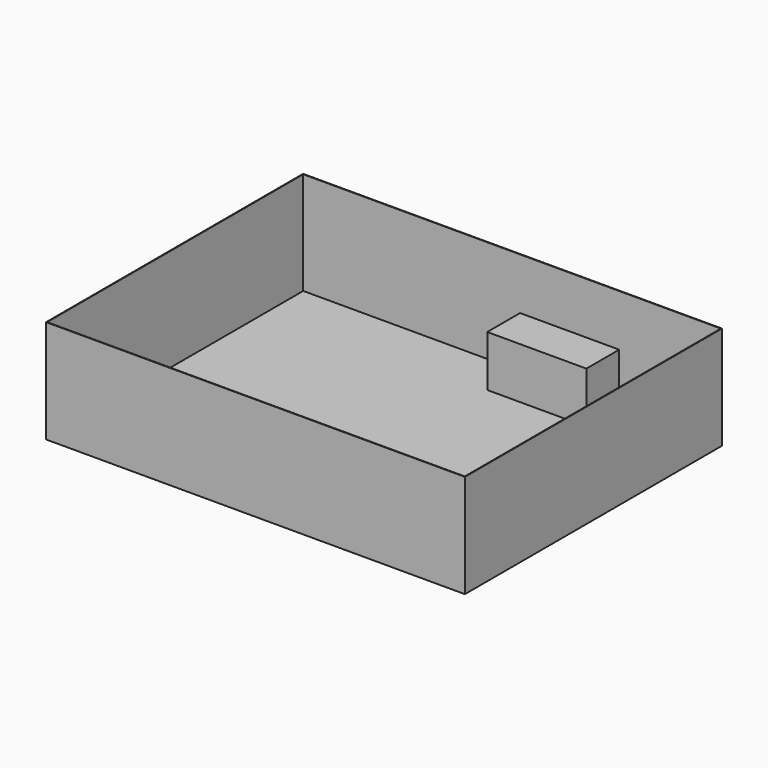
from build123d import *

# Parameters (mm, degrees)
F0_W     = 438.883424
F0_H     = 184.15
F1_DEPTH = 228.6
F2_DEPTH = 457.2
F3_T     = -2.54


with BuildPart() as f1:
    # F0 (on Top) → F1 (new body)
    with BuildSketch(Plane.XY):
        with Locations((950.091481, -59.105012)):
            Rectangle(F0_W, F0_H)
        with Locations((936.135352, 1179.144988)):
            Rectangle(F0_W, F0_H)
    extrude(amount=F1_DEPTH)


with BuildPart() as f2:
    # F0 (on Top) → F2 (new body)
    with BuildSketch(Plane.XY):
        Polygon((716.69364, 1271.219988), (-245.883688, 1271.219988), (-245.883688, -151.180012), (730.649769, -151.180012), (730.649769, 32.969988), (1169.533193, 32.969988), (1169.533193, -151.180012), (1608.316312, -151.180012), (1608.316312, 1271.219988), (1155.577064, 1271.219988), (1155.577064, 1087.069988), (716.69364, 1087.069988), align=None)
        with Locations((936.135352, 1179.144988)):
            Rectangle(F0_W, F0_H)
        with Locations((950.091481, -59.105012)):
            Rectangle(F0_W, F0_H)
    extrude(amount=F2_DEPTH)

    # F3
    f3_openings = [f2.faces().sort_by_distance(p)[0] for p in [
        (681.216312, 560.019988, 457.2),
    ]]
    offset(amount=F3_T, openings=f3_openings)


solid = Compound([f1.part, f2.part])
